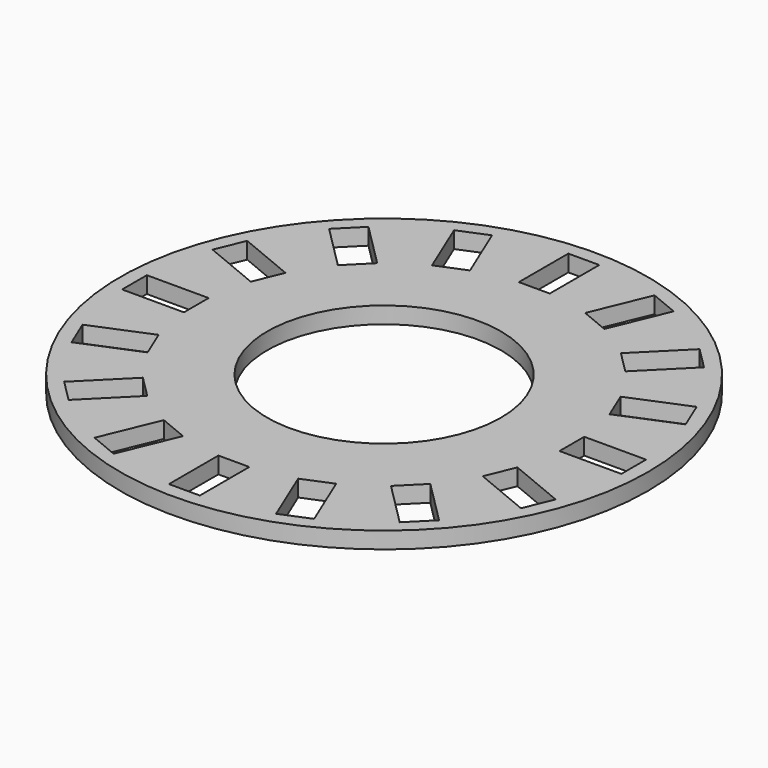
from build123d import *

# Parameters (mm, degrees)
F0_R     = 44.45
F0_W     = 5.207
F0_H     = 10.414
F0_W_2   = 10.414
F0_H_2   = 5.207
F0_R_2   = 19.685
F1_DEPTH = 2.794


with BuildPart() as f1:
    # F0 (on Top) → F1 (new body)
    with BuildSketch(Plane.XY):
        Circle(F0_R)
        Polygon((-24.20179, -20.519885), (-20.519885, -24.20179), (-27.883695, -31.5656), (-31.5656, -27.883695), align=None, mode=Mode.SUBTRACT)
        Polygon((-14.506919, -28.219526), (-9.696278, -30.212159), (-13.681543, -39.83344), (-18.492184, -37.840808), align=None, mode=Mode.SUBTRACT)
        Polygon((-30.212159, -9.696278), (-28.219526, -14.506919), (-37.840808, -18.492184), (-39.83344, -13.681543), align=None, mode=Mode.SUBTRACT)
        with Locations((0, -36.83)):
            Rectangle(F0_W, F0_H, mode=Mode.SUBTRACT)
        Polygon((9.696278, -30.212159), (14.506919, -28.219526), (18.492184, -37.840808), (13.681543, -39.83344), align=None, mode=Mode.SUBTRACT)
        Polygon((20.519885, -24.20179), (24.20179, -20.519885), (31.5656, -27.883695), (27.883695, -31.5656), align=None, mode=Mode.SUBTRACT)
        Polygon((28.219526, -14.506919), (30.212159, -9.696278), (39.83344, -13.681543), (37.840808, -18.492184), align=None, mode=Mode.SUBTRACT)
        with Locations((-36.83, 0)):
            Rectangle(F0_W_2, F0_H_2, mode=Mode.SUBTRACT)
        Polygon((-28.219526, 14.506919), (-30.212159, 9.696278), (-39.83344, 13.681543), (-37.840808, 18.492184), align=None, mode=Mode.SUBTRACT)
        Polygon((-20.519885, 24.20179), (-24.20179, 20.519885), (-31.5656, 27.883695), (-27.883695, 31.5656), align=None, mode=Mode.SUBTRACT)
        Polygon((-9.696278, 30.212159), (-14.506919, 28.219526), (-18.492184, 37.840808), (-13.681543, 39.83344), align=None, mode=Mode.SUBTRACT)
        Circle(F0_R_2, mode=Mode.SUBTRACT)
        with Locations((36.83, 0)):
            Rectangle(F0_W_2, F0_H_2, mode=Mode.SUBTRACT)
        Polygon((30.212159, 9.696278), (28.219526, 14.506919), (37.840808, 18.492184), (39.83344, 13.681543), align=None, mode=Mode.SUBTRACT)
        with Locations((0, 36.83)):
            Rectangle(F0_W, F0_H, mode=Mode.SUBTRACT)
        Polygon((14.506919, 28.219526), (9.696278, 30.212159), (13.681543, 39.83344), (18.492184, 37.840808), align=None, mode=Mode.SUBTRACT)
        Polygon((24.20179, 20.519885), (20.519885, 24.20179), (27.883695, 31.5656), (31.5656, 27.883695), align=None, mode=Mode.SUBTRACT)
    extrude(amount=F1_DEPTH)


solid = f1.part
